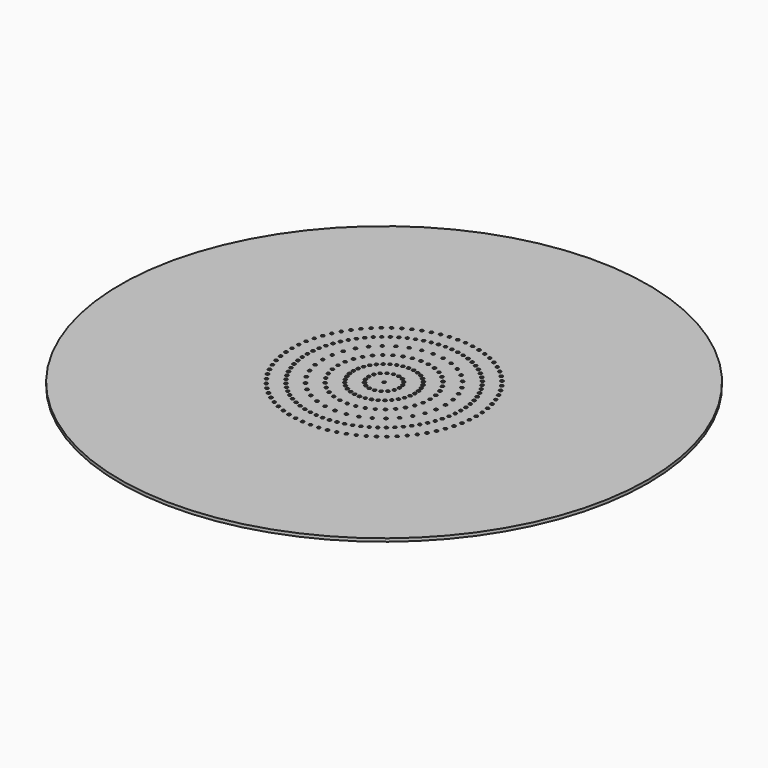
from build123d import *

# Parameters (mm, degrees)
F0_R     = 43
F1_DEPTH = 0.5
F2_R     = 0.25
F7_DEPTH = 25
F3_R     = 0.25
F4_R     = 0.25
F5_R     = 0.25
F6_R     = 0.25
F8_DEPTH = 25


with BuildPart() as f1:
    # F0 (on Top) → F1 (new body)
    with BuildSketch(Plane.XY):
        Circle(F0_R)
    extrude(amount=-F1_DEPTH)

    # F2 (on face) → F7 (cut)
    with BuildSketch(Plane.XY):
        Circle(F2_R)
    extrude(amount=-F7_DEPTH, mode=Mode.SUBTRACT)

    # F3 (on face) + F4 (on face) + F5 (on face) + F6 (on face) → F8 (cut)
    with BuildSketch(Plane.XY):
        Circle(F3_R)
        with Locations((2.5, 0)):
            Circle(F3_R)
        with Locations((5, 0)):
            Circle(F3_R)
        with Locations((7.5, 0)):
            Circle(F3_R)
        with Locations((10, 0)):
            Circle(F3_R)
        with Locations((12.5, 0)):
            Circle(F3_R)
        with Locations((15, 0)):
            Circle(F3_R)
    with BuildSketch(Plane.XY):
        with Locations((2.5, 0)):
            Circle(F4_R)
        with Locations((2.349232, -0.85505)):
            Circle(F4_R)
        with Locations((1.915111, -1.606969)):
            Circle(F4_R)
        with Locations((1.25, -2.165064)):
            Circle(F4_R)
        with Locations((0.43412, -2.462019)):
            Circle(F4_R)
        with Locations((-0.43412, -2.462019)):
            Circle(F4_R)
        with Locations((-1.25, -2.165064)):
            Circle(F4_R)
        with Locations((-1.915111, -1.606969)):
            Circle(F4_R)
        with Locations((-2.349232, -0.85505)):
            Circle(F4_R)
        with Locations((-2.5, 0)):
            Circle(F4_R)
        with Locations((-2.349232, 0.85505)):
            Circle(F4_R)
        with Locations((-1.915111, 1.606969)):
            Circle(F4_R)
        with Locations((-1.25, 2.165064)):
            Circle(F4_R)
        with Locations((-0.43412, 2.462019)):
            Circle(F4_R)
        with Locations((0.43412, 2.462019)):
            Circle(F4_R)
        with Locations((1.25, 2.165064)):
            Circle(F4_R)
        with Locations((1.915111, 1.606969)):
            Circle(F4_R)
        with Locations((2.349232, 0.85505)):
            Circle(F4_R)
    with BuildSketch(Plane.XY):
        with Locations((5, 0)):
            Circle(F5_R)
        with Locations((7.5, 0)):
            Circle(F5_R)
        with Locations((10, 0)):
            Circle(F5_R)
        with Locations((4.924039, 0.868241)):
            Circle(F5_R)
        with Locations((7.386058, 1.302361)):
            Circle(F5_R)
        with Locations((9.848078, 1.736482)):
            Circle(F5_R)
        with Locations((4.698463, 1.710101)):
            Circle(F5_R)
        with Locations((7.047695, 2.565151)):
            Circle(F5_R)
        with Locations((9.396926, 3.420201)):
            Circle(F5_R)
        with Locations((4.330127, 2.5)):
            Circle(F5_R)
        with Locations((6.495191, 3.75)):
            Circle(F5_R)
        with Locations((8.660254, 5)):
            Circle(F5_R)
        with Locations((3.830222, 3.213938)):
            Circle(F5_R)
        with Locations((5.745333, 4.820907)):
            Circle(F5_R)
        with Locations((7.660444, 6.427876)):
            Circle(F5_R)
        with Locations((3.213938, 3.830222)):
            Circle(F5_R)
        with Locations((4.820907, 5.745333)):
            Circle(F5_R)
        with Locations((6.427876, 7.660444)):
            Circle(F5_R)
        with Locations((2.5, 4.330127)):
            Circle(F5_R)
        with Locations((3.75, 6.495191)):
            Circle(F5_R)
        with Locations((5, 8.660254)):
            Circle(F5_R)
        with Locations((1.710101, 4.698463)):
            Circle(F5_R)
        with Locations((2.565151, 7.047695)):
            Circle(F5_R)
        with Locations((3.420201, 9.396926)):
            Circle(F5_R)
        with Locations((0.868241, 4.924039)):
            Circle(F5_R)
        with Locations((1.302361, 7.386058)):
            Circle(F5_R)
        with Locations((1.736482, 9.848078)):
            Circle(F5_R)
        with Locations((0, 5)):
            Circle(F5_R)
        with Locations((0, 7.5)):
            Circle(F5_R)
        with Locations((0, 10)):
            Circle(F5_R)
        with Locations((-0.868241, 4.924039)):
            Circle(F5_R)
        with Locations((-1.302361, 7.386058)):
            Circle(F5_R)
        with Locations((-1.736482, 9.848078)):
            Circle(F5_R)
        with Locations((-1.710101, 4.698463)):
            Circle(F5_R)
        with Locations((-2.565151, 7.047695)):
            Circle(F5_R)
        with Locations((-3.420201, 9.396926)):
            Circle(F5_R)
        with Locations((-2.5, 4.330127)):
            Circle(F5_R)
        with Locations((-3.75, 6.495191)):
            Circle(F5_R)
        with Locations((-5, 8.660254)):
            Circle(F5_R)
        with Locations((-3.213938, 3.830222)):
            Circle(F5_R)
        with Locations((-4.820907, 5.745333)):
            Circle(F5_R)
        with Locations((-6.427876, 7.660444)):
            Circle(F5_R)
        with Locations((-3.830222, 3.213938)):
            Circle(F5_R)
        with Locations((-5.745333, 4.820907)):
            Circle(F5_R)
        with Locations((-7.660444, 6.427876)):
            Circle(F5_R)
        with Locations((-4.330127, 2.5)):
            Circle(F5_R)
        with Locations((-6.495191, 3.75)):
            Circle(F5_R)
        with Locations((-8.660254, 5)):
            Circle(F5_R)
        with Locations((-4.698463, 1.710101)):
            Circle(F5_R)
        with Locations((-7.047695, 2.565151)):
            Circle(F5_R)
        with Locations((-9.396926, 3.420201)):
            Circle(F5_R)
        with Locations((-4.924039, 0.868241)):
            Circle(F5_R)
        with Locations((-7.386058, 1.302361)):
            Circle(F5_R)
        with Locations((-9.848078, 1.736482)):
            Circle(F5_R)
        with Locations((-5, 0)):
            Circle(F5_R)
        with Locations((-7.5, 0)):
            Circle(F5_R)
        with Locations((-10, 0)):
            Circle(F5_R)
        with Locations((-4.924039, -0.868241)):
            Circle(F5_R)
        with Locations((-7.386058, -1.302361)):
            Circle(F5_R)
        with Locations((-9.848078, -1.736482)):
            Circle(F5_R)
        with Locations((-4.698463, -1.710101)):
            Circle(F5_R)
        with Locations((-7.047695, -2.565151)):
            Circle(F5_R)
        with Locations((-9.396926, -3.420201)):
            Circle(F5_R)
        with Locations((-4.330127, -2.5)):
            Circle(F5_R)
        with Locations((-6.495191, -3.75)):
            Circle(F5_R)
        with Locations((-8.660254, -5)):
            Circle(F5_R)
        with Locations((-3.830222, -3.213938)):
            Circle(F5_R)
        with Locations((-5.745333, -4.820907)):
            Circle(F5_R)
        with Locations((-7.660444, -6.427876)):
            Circle(F5_R)
        with Locations((-3.213938, -3.830222)):
            Circle(F5_R)
        with Locations((-4.820907, -5.745333)):
            Circle(F5_R)
        with Locations((-6.427876, -7.660444)):
            Circle(F5_R)
        with Locations((-2.5, -4.330127)):
            Circle(F5_R)
        with Locations((-3.75, -6.495191)):
            Circle(F5_R)
        with Locations((-5, -8.660254)):
            Circle(F5_R)
        with Locations((-1.710101, -4.698463)):
            Circle(F5_R)
        with Locations((-2.565151, -7.047695)):
            Circle(F5_R)
        with Locations((-3.420201, -9.396926)):
            Circle(F5_R)
        with Locations((-0.868241, -4.924039)):
            Circle(F5_R)
        with Locations((-1.302361, -7.386058)):
            Circle(F5_R)
        with Locations((-1.736482, -9.848078)):
            Circle(F5_R)
        with Locations((0, -5)):
            Circle(F5_R)
        with Locations((0, -7.5)):
            Circle(F5_R)
        with Locations((0, -10)):
            Circle(F5_R)
        with Locations((0.868241, -4.924039)):
            Circle(F5_R)
        with Locations((1.302361, -7.386058)):
            Circle(F5_R)
        with Locations((1.736482, -9.848078)):
            Circle(F5_R)
        with Locations((1.710101, -4.698463)):
            Circle(F5_R)
        with Locations((2.565151, -7.047695)):
            Circle(F5_R)
        with Locations((3.420201, -9.396926)):
            Circle(F5_R)
        with Locations((2.5, -4.330127)):
            Circle(F5_R)
        with Locations((3.75, -6.495191)):
            Circle(F5_R)
        with Locations((5, -8.660254)):
            Circle(F5_R)
        with Locations((3.213938, -3.830222)):
            Circle(F5_R)
        with Locations((4.820907, -5.745333)):
            Circle(F5_R)
        with Locations((6.427876, -7.660444)):
            Circle(F5_R)
        with Locations((3.830222, -3.213938)):
            Circle(F5_R)
        with Locations((5.745333, -4.820907)):
            Circle(F5_R)
        with Locations((7.660444, -6.427876)):
            Circle(F5_R)
        with Locations((4.330127, -2.5)):
            Circle(F5_R)
        with Locations((6.495191, -3.75)):
            Circle(F5_R)
        with Locations((8.660254, -5)):
            Circle(F5_R)
        with Locations((4.698463, -1.710101)):
            Circle(F5_R)
        with Locations((7.047695, -2.565151)):
            Circle(F5_R)
        with Locations((9.396926, -3.420201)):
            Circle(F5_R)
        with Locations((4.924039, -0.868241)):
            Circle(F5_R)
        with Locations((7.386058, -1.302361)):
            Circle(F5_R)
        with Locations((9.848078, -1.736482)):
            Circle(F5_R)
    with BuildSketch(Plane.XY):
        with Locations((12.5, 0)):
            Circle(F6_R)
        with Locations((15, 0)):
            Circle(F6_R)
        with Locations((12.452434, 1.089447)):
            Circle(F6_R)
        with Locations((14.94292, 1.307336)):
            Circle(F6_R)
        with Locations((12.310097, 2.170602)):
            Circle(F6_R)
        with Locations((14.772116, 2.604723)):
            Circle(F6_R)
        with Locations((12.074073, 3.235238)):
            Circle(F6_R)
        with Locations((14.488887, 3.882286)):
            Circle(F6_R)
        with Locations((11.746158, 4.275252)):
            Circle(F6_R)
        with Locations((14.095389, 5.130302)):
            Circle(F6_R)
        with Locations((11.328847, 5.282728)):
            Circle(F6_R)
        with Locations((13.594617, 6.339274)):
            Circle(F6_R)
        with Locations((10.825318, 6.25)):
            Circle(F6_R)
        with Locations((12.990381, 7.5)):
            Circle(F6_R)
        with Locations((10.239401, 7.169705)):
            Circle(F6_R)
        with Locations((12.287281, 8.603647)):
            Circle(F6_R)
        with Locations((9.575556, 8.034845)):
            Circle(F6_R)
        with Locations((11.490667, 9.641814)):
            Circle(F6_R)
        with Locations((8.838835, 8.838835)):
            Circle(F6_R)
        with Locations((10.606602, 10.606602)):
            Circle(F6_R)
        with Locations((8.034845, 9.575556)):
            Circle(F6_R)
        with Locations((9.641814, 11.490667)):
            Circle(F6_R)
        with Locations((7.169705, 10.239401)):
            Circle(F6_R)
        with Locations((8.603647, 12.287281)):
            Circle(F6_R)
        with Locations((6.25, 10.825318)):
            Circle(F6_R)
        with Locations((7.5, 12.990381)):
            Circle(F6_R)
        with Locations((5.282728, 11.328847)):
            Circle(F6_R)
        with Locations((6.339274, 13.594617)):
            Circle(F6_R)
        with Locations((4.275252, 11.746158)):
            Circle(F6_R)
        with Locations((5.130302, 14.095389)):
            Circle(F6_R)
        with Locations((3.235238, 12.074073)):
            Circle(F6_R)
        with Locations((3.882286, 14.488887)):
            Circle(F6_R)
        with Locations((2.170602, 12.310097)):
            Circle(F6_R)
        with Locations((2.604723, 14.772116)):
            Circle(F6_R)
        with Locations((1.089447, 12.452434)):
            Circle(F6_R)
        with Locations((1.307336, 14.94292)):
            Circle(F6_R)
        with Locations((0, 12.5)):
            Circle(F6_R)
        with Locations((0, 15)):
            Circle(F6_R)
        with Locations((-1.089447, 12.452434)):
            Circle(F6_R)
        with Locations((-1.307336, 14.94292)):
            Circle(F6_R)
        with Locations((-2.170602, 12.310097)):
            Circle(F6_R)
        with Locations((-2.604723, 14.772116)):
            Circle(F6_R)
        with Locations((-3.235238, 12.074073)):
            Circle(F6_R)
        with Locations((-3.882286, 14.488887)):
            Circle(F6_R)
        with Locations((-4.275252, 11.746158)):
            Circle(F6_R)
        with Locations((-5.130302, 14.095389)):
            Circle(F6_R)
        with Locations((-5.282728, 11.328847)):
            Circle(F6_R)
        with Locations((-6.339274, 13.594617)):
            Circle(F6_R)
        with Locations((-6.25, 10.825318)):
            Circle(F6_R)
        with Locations((-7.5, 12.990381)):
            Circle(F6_R)
        with Locations((-7.169705, 10.239401)):
            Circle(F6_R)
        with Locations((-8.603647, 12.287281)):
            Circle(F6_R)
        with Locations((-8.034845, 9.575556)):
            Circle(F6_R)
        with Locations((-9.641814, 11.490667)):
            Circle(F6_R)
        with Locations((-8.838835, 8.838835)):
            Circle(F6_R)
        with Locations((-10.606602, 10.606602)):
            Circle(F6_R)
        with Locations((-9.575556, 8.034845)):
            Circle(F6_R)
        with Locations((-11.490667, 9.641814)):
            Circle(F6_R)
        with Locations((-10.239401, 7.169705)):
            Circle(F6_R)
        with Locations((-12.287281, 8.603647)):
            Circle(F6_R)
        with Locations((-10.825318, 6.25)):
            Circle(F6_R)
        with Locations((-12.990381, 7.5)):
            Circle(F6_R)
        with Locations((-11.328847, 5.282728)):
            Circle(F6_R)
        with Locations((-13.594617, 6.339274)):
            Circle(F6_R)
        with Locations((-11.746158, 4.275252)):
            Circle(F6_R)
        with Locations((-14.095389, 5.130302)):
            Circle(F6_R)
        with Locations((-12.074073, 3.235238)):
            Circle(F6_R)
        with Locations((-14.488887, 3.882286)):
            Circle(F6_R)
        with Locations((-12.310097, 2.170602)):
            Circle(F6_R)
        with Locations((-14.772116, 2.604723)):
            Circle(F6_R)
        with Locations((-12.452434, 1.089447)):
            Circle(F6_R)
        with Locations((-14.94292, 1.307336)):
            Circle(F6_R)
        with Locations((-12.5, 0)):
            Circle(F6_R)
        with Locations((-15, 0)):
            Circle(F6_R)
        with Locations((-12.452434, -1.089447)):
            Circle(F6_R)
        with Locations((-14.94292, -1.307336)):
            Circle(F6_R)
        with Locations((-12.310097, -2.170602)):
            Circle(F6_R)
        with Locations((-14.772116, -2.604723)):
            Circle(F6_R)
        with Locations((-12.074073, -3.235238)):
            Circle(F6_R)
        with Locations((-14.488887, -3.882286)):
            Circle(F6_R)
        with Locations((-11.746158, -4.275252)):
            Circle(F6_R)
        with Locations((-14.095389, -5.130302)):
            Circle(F6_R)
        with Locations((-11.328847, -5.282728)):
            Circle(F6_R)
        with Locations((-13.594617, -6.339274)):
            Circle(F6_R)
        with Locations((-10.825318, -6.25)):
            Circle(F6_R)
        with Locations((-12.990381, -7.5)):
            Circle(F6_R)
        with Locations((-10.239401, -7.169705)):
            Circle(F6_R)
        with Locations((-12.287281, -8.603647)):
            Circle(F6_R)
        with Locations((-9.575556, -8.034845)):
            Circle(F6_R)
        with Locations((-11.490667, -9.641814)):
            Circle(F6_R)
        with Locations((-8.838835, -8.838835)):
            Circle(F6_R)
        with Locations((-10.606602, -10.606602)):
            Circle(F6_R)
        with Locations((-8.034845, -9.575556)):
            Circle(F6_R)
        with Locations((-9.641814, -11.490667)):
            Circle(F6_R)
        with Locations((-7.169705, -10.239401)):
            Circle(F6_R)
        with Locations((-8.603647, -12.287281)):
            Circle(F6_R)
        with Locations((-6.25, -10.825318)):
            Circle(F6_R)
        with Locations((-7.5, -12.990381)):
            Circle(F6_R)
        with Locations((-5.282728, -11.328847)):
            Circle(F6_R)
        with Locations((-6.339274, -13.594617)):
            Circle(F6_R)
        with Locations((-4.275252, -11.746158)):
            Circle(F6_R)
        with Locations((-5.130302, -14.095389)):
            Circle(F6_R)
        with Locations((-3.235238, -12.074073)):
            Circle(F6_R)
        with Locations((-3.882286, -14.488887)):
            Circle(F6_R)
        with Locations((-2.170602, -12.310097)):
            Circle(F6_R)
        with Locations((-2.604723, -14.772116)):
            Circle(F6_R)
        with Locations((-1.089447, -12.452434)):
            Circle(F6_R)
        with Locations((-1.307336, -14.94292)):
            Circle(F6_R)
        with Locations((0, -12.5)):
            Circle(F6_R)
        with Locations((0, -15)):
            Circle(F6_R)
        with Locations((1.089447, -12.452434)):
            Circle(F6_R)
        with Locations((1.307336, -14.94292)):
            Circle(F6_R)
        with Locations((2.170602, -12.310097)):
            Circle(F6_R)
        with Locations((2.604723, -14.772116)):
            Circle(F6_R)
        with Locations((3.235238, -12.074073)):
            Circle(F6_R)
        with Locations((3.882286, -14.488887)):
            Circle(F6_R)
        with Locations((4.275252, -11.746158)):
            Circle(F6_R)
        with Locations((5.130302, -14.095389)):
            Circle(F6_R)
        with Locations((5.282728, -11.328847)):
            Circle(F6_R)
        with Locations((6.339274, -13.594617)):
            Circle(F6_R)
        with Locations((6.25, -10.825318)):
            Circle(F6_R)
        with Locations((7.5, -12.990381)):
            Circle(F6_R)
        with Locations((7.169705, -10.239401)):
            Circle(F6_R)
        with Locations((8.603647, -12.287281)):
            Circle(F6_R)
        with Locations((8.034845, -9.575556)):
            Circle(F6_R)
        with Locations((9.641814, -11.490667)):
            Circle(F6_R)
        with Locations((8.838835, -8.838835)):
            Circle(F6_R)
        with Locations((10.606602, -10.606602)):
            Circle(F6_R)
        with Locations((9.575556, -8.034845)):
            Circle(F6_R)
        with Locations((11.490667, -9.641814)):
            Circle(F6_R)
        with Locations((10.239401, -7.169705)):
            Circle(F6_R)
        with Locations((12.287281, -8.603647)):
            Circle(F6_R)
        with Locations((10.825318, -6.25)):
            Circle(F6_R)
        with Locations((12.990381, -7.5)):
            Circle(F6_R)
        with Locations((11.328847, -5.282728)):
            Circle(F6_R)
        with Locations((13.594617, -6.339274)):
            Circle(F6_R)
        with Locations((11.746158, -4.275252)):
            Circle(F6_R)
        with Locations((14.095389, -5.130302)):
            Circle(F6_R)
        with Locations((12.074073, -3.235238)):
            Circle(F6_R)
        with Locations((14.488887, -3.882286)):
            Circle(F6_R)
        with Locations((12.310097, -2.170602)):
            Circle(F6_R)
        with Locations((14.772116, -2.604723)):
            Circle(F6_R)
        with Locations((12.452434, -1.089447)):
            Circle(F6_R)
        with Locations((14.94292, -1.307336)):
            Circle(F6_R)
    extrude(amount=-F8_DEPTH, mode=Mode.SUBTRACT)


solid = f1.part
